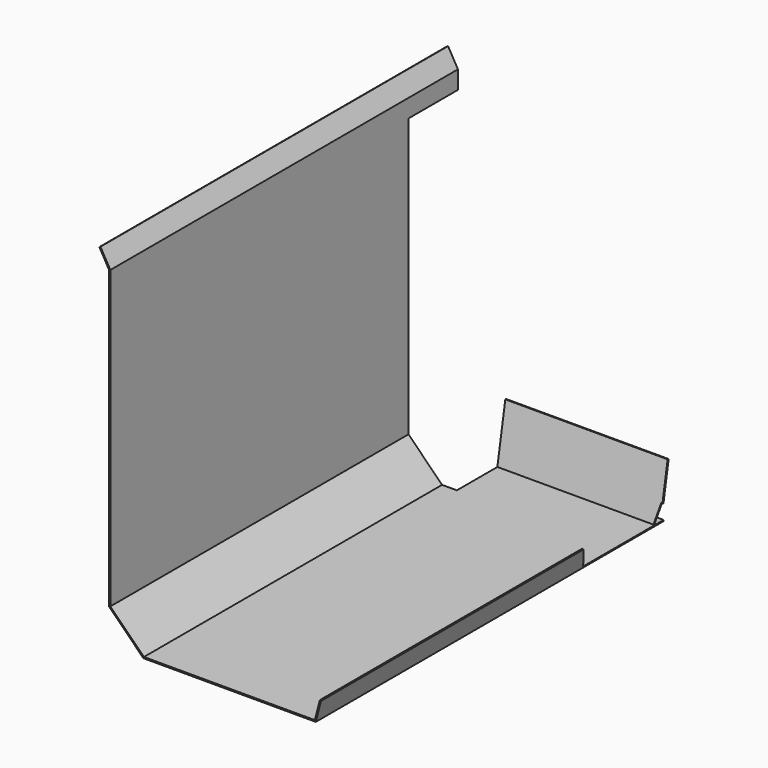
from build123d import *

# Parameters (mm, degrees)
F1_DEPTH  = 1076
F2_W      = 123
F2_H      = 775
F3_DEPTH  = 153
F5_DEPTH  = 402
F7_DEPTH  = 25
F9_DEPTH  = 50
F11_DEPTH = 260


with BuildPart() as f1:
    # F0 (on Front) → F1 (new body)
    with BuildSketch(Plane.XZ):
        Polygon((0, 819), (0, 85), (85, 0), (512, 0), (525, 50), (521.9029679783, 50.8052283256), (509.5256086136, 3.2), (86.3254833996, 3.2), (3.2, 86.3254833996), (3.2, 819.8498061986), (-21.2216219452, 862.5876446027), (-24, 861), align=None)
    extrude(amount=F1_DEPTH)

    # F2 (on face) → F3 (cut)
    with BuildSketch(Plane(origin=(0, 0, 0), x_dir=(-1, 0, 0), z_dir=(0, 1, 0))):
        with Locations((-61.5, 387.5)):
            Rectangle(F2_W, F2_H)
    extrude(amount=-F3_DEPTH, mode=Mode.SUBTRACT)

    # F4 (on face) → F5 (join)
    with BuildSketch(Plane(origin=(123, 0, 0), x_dir=(0, -1, 0), z_dir=(-1, 0, 0))):
        Polygon((0, 140), (25, 0), (28.1501682416, 0.5625300431), (3.1501682416, 140.5625300431), align=None)
    extrude(amount=-F5_DEPTH)

    # F6 (on face) → F7 (cut)
    with BuildSketch(Plane(origin=(476.483335157, 0, -123.8856671408), x_dir=(0, -1, 0), z_dir=(-0.9678225068, 0, 0.2516338518))):
        Polygon((15.927637799, 180.498897516), (24.4285714286, 131.31092349), (27.6760096229, 131.31092349), (19.1750759933, 180.498897516), align=None)
        Polygon((19.1750759933, 180.498897516), (27.6760096229, 131.31092349), (249, 131.31092349), (263.7563922078, 180.498897516), align=None)
        Polygon((0, 180.498897516), (0, 131.31092349), (24.4285714286, 131.31092349), (15.927637799, 180.498897516), align=None)
    extrude(amount=-F7_DEPTH, mode=Mode.SUBTRACT)

    # F8 (on face) → F9 (cut)
    with BuildSketch(Plane(origin=(0, 0, 0), x_dir=(-1, 0, 0), z_dir=(0, 1, 0))):
        Polygon((-525.584936142, 0), (-512, 0), (-513.4268980016, 5.488069237), align=None)
    extrude(amount=-F9_DEPTH, mode=Mode.SUBTRACT)

    # F10 (on face) → F11 (join)
    with BuildSketch(Plane(origin=(0, 0, 0), x_dir=(-1, 0, 0), z_dir=(0, 1, 0))):
        Polygon((-512.6226406353, 2.3947716744), (-509.5256086136, 3.2), (-512.6226406353, 3.2), align=None)
    extrude(amount=-F11_DEPTH)


solid = f1.part
